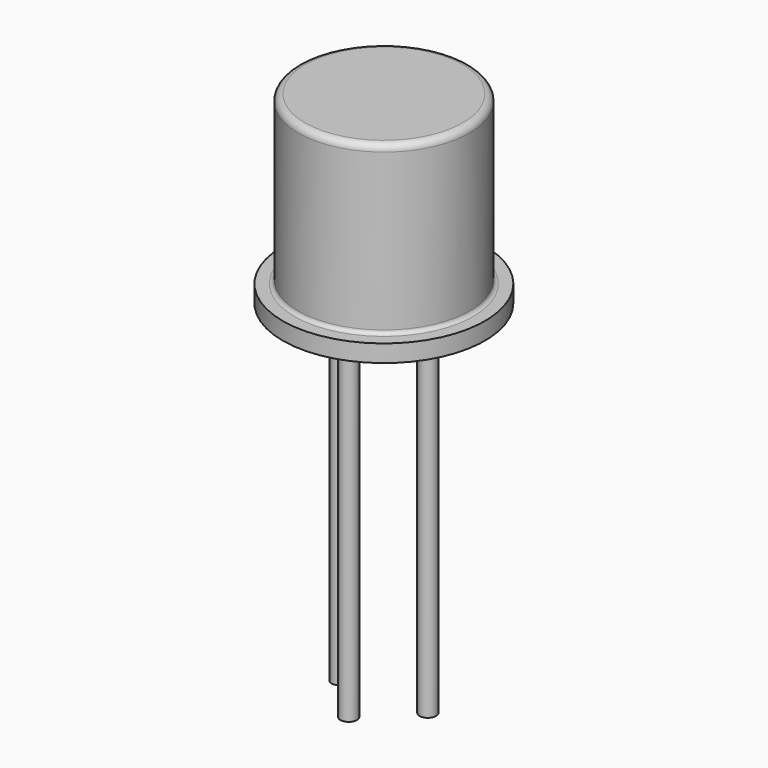
from build123d import *

# Parameters (mm, degrees)
SKETCH_R     = 0.24
PAD_DEPTH    = 10
SKETCH001_R  = 0.24
PAD002_DEPTH = 10
PAD003_DEPTH = 0.5
SKETCH005_R  = 0.24
PAD004_DEPTH = 10


with BuildPart() as pad:
    # Sketch → Pad (new body)
    with BuildSketch(Plane.XY.offset(5)):
        Circle(SKETCH_R)
    extrude(amount=-PAD_DEPTH)


with BuildPart() as pad002:
    # Sketch001 → Pad002 (new body)
    with BuildSketch(Plane.XY.offset(5)):
        with Locations((2.54, 0)):
            Circle(SKETCH001_R)
    extrude(amount=-PAD002_DEPTH)


with BuildPart() as revolution:
    # Sketch003 → Revolution (revolve)
    with BuildSketch(Plane.XZ):
        with BuildLine():
            Line((1.27, 5), (-1.65, 5))
            Line((-1.65, 5), (-1.65, 5.5))
            Line((-1.65, 5.5), (-1.311932, 5.502782))
            ThreePointArc((-1.311932, 5.502782), (-1.236267, 5.534672), (-1.205, 5.610597))
            Line((-1.205, 5.610597), (-1.205, 10.132333))
            ThreePointArc((-1.007333, 10.33), (-1.147105, 10.272105), (-1.205, 10.132333))
            Line((-1.007333, 10.33), (1.27, 10.33))
            Line((1.27, 10.33), (1.27, 5))
        make_face()
    revolve(axis=Axis((1.27, 0, 2.550668), (0, 0, 1)))


with BuildPart() as pad003:
    # Sketch004 → Pad003 (new body)
    with BuildSketch(Plane.XY.offset(5)):
        Polygon((1.57052, 0.30052), (-1.356902, 3.227942), (-1.957942, 2.626902), (0.96948, -0.30052), align=None)
    extrude(amount=PAD003_DEPTH)


with BuildPart() as pad004:
    # Sketch005 → Pad004 (new body)
    with BuildSketch(Plane.XY.offset(5)):
        with Locations((1.27, -1.27)):
            Circle(SKETCH005_R)
    extrude(amount=-PAD004_DEPTH)


solid = Compound([pad.part, pad002.part, revolution.part, pad003.part, pad004.part])
